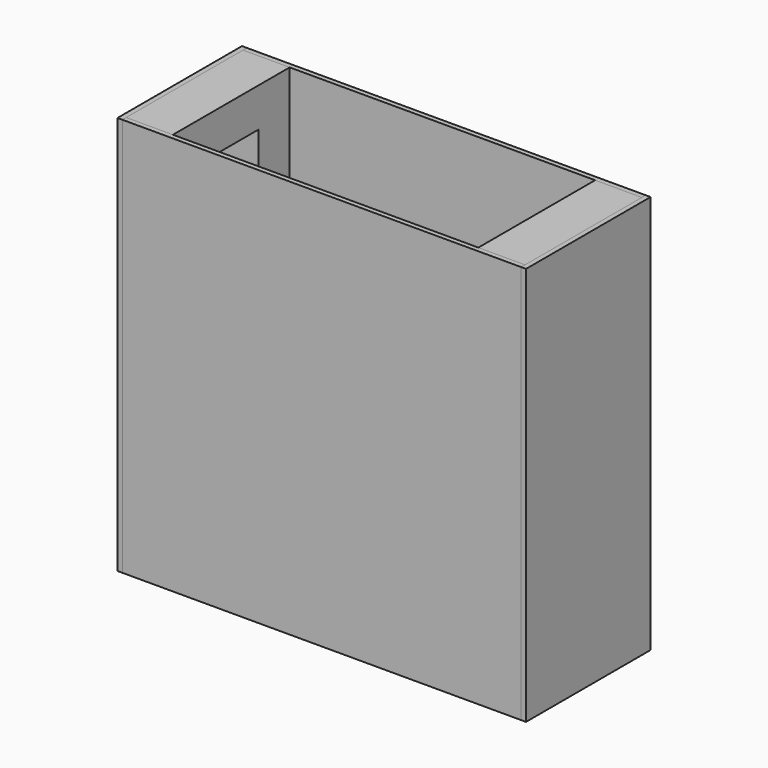
from build123d import *

# Parameters (mm, degrees)
F0_W      = 410
F0_H      = 410
F1_DEPTH  = 5
F2_W      = 48
F2_H      = 410
F3_DEPTH  = 150
F4_W      = 410
F4_H      = 410
F5_DEPTH  = 5
F6_W      = 160
F6_H      = 410
F7_DEPTH  = 5
F8_W      = 160
F8_H      = 410
F9_DEPTH  = 5
F10_W     = 70
F10_H     = 330
F11_DEPTH = 50
F12_W     = 70
F12_H     = 330
F13_DEPTH = 50


with BuildPart() as f1:
    # F0 (on Front) → F1 (new body)
    with BuildSketch(Plane.XZ):
        Rectangle(F0_W, F0_H)
    extrude(amount=F1_DEPTH)


with BuildPart() as f3:
    # F2 (on face) → F3 (new body)
    with BuildSketch(Plane.XZ.offset(5)):
        with Locations((-181, 0)):
            Rectangle(F2_W, F2_H)
        with Locations((181, 0)):
            Rectangle(F2_W, F2_H)
    extrude(amount=F3_DEPTH)

    # F10 (on face) → F11 (cut)
    with BuildSketch(Plane(origin=(-205, 0, 0), x_dir=(0, -1, 0), z_dir=(-1, 0, 0))):
        with Locations((80, 0)):
            Rectangle(F10_W, F10_H)
    extrude(amount=-F11_DEPTH, mode=Mode.SUBTRACT)

    # F12 (on face) → F13 (cut)
    with BuildSketch(Plane.YZ.offset(205)):
        with Locations((-80, 0)):
            Rectangle(F12_W, F12_H)
    extrude(amount=-F13_DEPTH, mode=Mode.SUBTRACT)


with BuildPart() as f5:
    # F4 (on face) → F5 (new body)
    with BuildSketch(Plane.XZ.offset(155)):
        Rectangle(F4_W, F4_H)
    extrude(amount=F5_DEPTH)


with BuildPart() as f7:
    # F6 (on face) → F7 (new body)
    with BuildSketch(Plane(origin=(-205, 0, 0), x_dir=(0, -1, 0), z_dir=(-1, 0, 0))):
        with Locations((80, 0)):
            Rectangle(F6_W, F6_H)
    extrude(amount=F7_DEPTH)


with BuildPart() as f9:
    # F8 (on face) → F9 (new body)
    with BuildSketch(Plane.YZ.offset(205)):
        with Locations((-80, 0)):
            Rectangle(F8_W, F8_H)
    extrude(amount=F9_DEPTH)


solid = Compound([f1.part, f3.part, f5.part, f7.part, f9.part])
